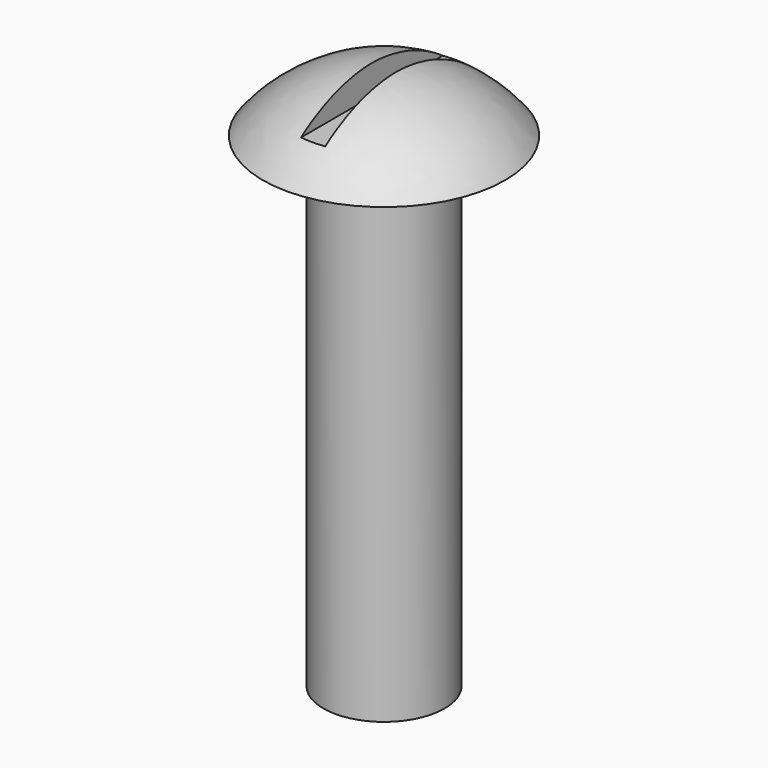
from build123d import *

# Parameters (mm, degrees)
F2_DEPTH = 12.7
F3_R     = 6.35
F4_DEPTH = 50.8


with BuildPart() as f1:
    # F0 (on Front) → F1 (revolve)
    with BuildSketch(Plane.XZ):
        with BuildLine():
            Line((0, 3.175), (0, 0))
            Line((0, 0), (12.7, 0))
            ThreePointArc((12.7, 0), (7.6159171285, 4.2838145072), (1.27, 6.2658087489))
            Line((1.27, 6.2658087489), (1.27, 3.175))
            Line((1.27, 3.175), (0, 3.175))
        make_face()
    revolve(axis=Axis((0, 0, 3.175), (0, 0, 1)))

    # F0 (on Front) → F2 (cut, symmetric)
    with BuildSketch(Plane.XZ):
        with BuildLine():
            Line((-1.27, 3.175), (0, 3.175))
            Line((0, 3.175), (0, 6.35))
            ThreePointArc((0, 6.35), (0.6357958012, 6.3199087984), (1.27, 6.2658087489))
            Line((1.27, 6.2658087489), (1.27, 9.525))
            Line((1.27, 9.525), (-1.27, 9.525))
            Line((-1.27, 9.525), (-1.27, 3.175))
        make_face()
        with BuildLine():
            Line((0, 6.35), (0, 3.175))
            Line((0, 3.175), (1.27, 3.175))
            Line((1.27, 3.175), (1.27, 6.2658087489))
            ThreePointArc((1.27, 6.2658087489), (0.6357958012, 6.3199087984), (0, 6.35))
        make_face()
    extrude(amount=F2_DEPTH, both=True, mode=Mode.SUBTRACT)

    # F3 (on face) → F4 (join)
    with BuildSketch(Plane(origin=(0, 0, 0), x_dir=(1, 0, 0), z_dir=(0, 0, -1))):
        Circle(F3_R)
    extrude(amount=F4_DEPTH)


solid = f1.part
